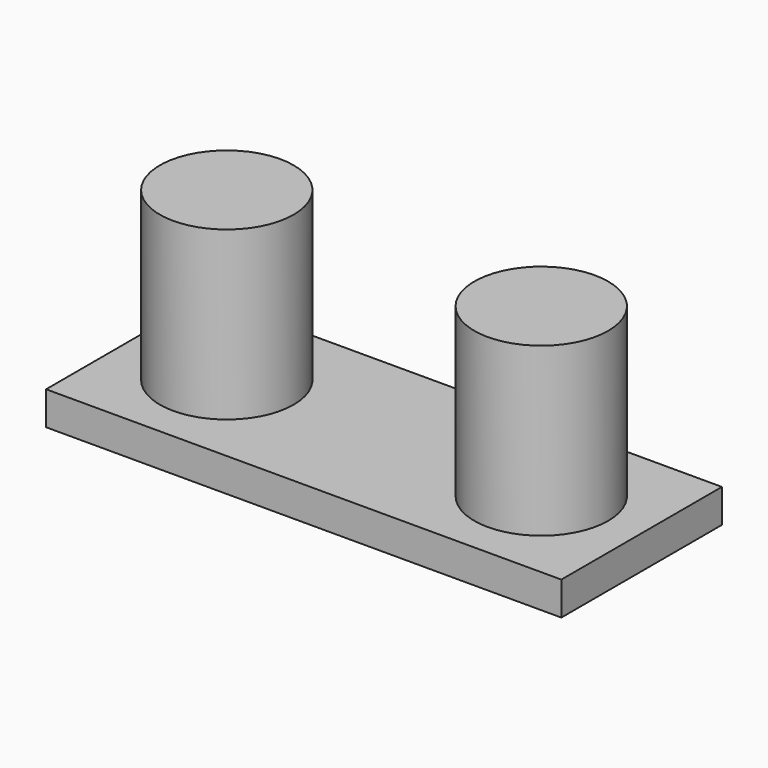
from build123d import *

# Parameters (mm, degrees)
F2_DEPTH = 5
F3_DEPTH = 30


with BuildPart() as f2:
    # F0 (on Top) → F2 (new body)
    with BuildSketch(Plane.XY):
        with BuildLine():
            ThreePointArc((-10, 0), (0, 10), (10, 0))
            Line((10, 0), (37, 0))
            ThreePointArc((37, 0), (47, 10), (57, 0))
            Line((57, 0), (62, 0))
            Line((62, 0), (62, 15))
            Line((62, 15), (-15, 15))
            Line((-15, 15), (-15, 0))
            Line((-15, 0), (-10, 0))
        make_face()
        with BuildLine():
            Line((37, 0), (10, 0))
            ThreePointArc((10, 0), (0, -10), (-10, 0))
            Line((-10, 0), (-15, 0))
            Line((-15, 0), (-15, -15))
            Line((-15, -15), (62, -15))
            Line((62, -15), (62, 0))
            Line((62, 0), (57, 0))
            ThreePointArc((57, 0), (47, -10), (37, 0))
        make_face()
    extrude(amount=F2_DEPTH)

    # F0 (on Top) → F3 (join)
    with BuildSketch(Plane.XY):
        with BuildLine():
            ThreePointArc((-10, 0), (0, -10), (10, 0))
            Line((10, 0), (0, 0))
            Line((0, 0), (-10, 0))
        make_face()
        with BuildLine():
            Line((0, 0), (10, 0))
            ThreePointArc((10, 0), (0, 10), (-10, 0))
            Line((-10, 0), (0, 0))
        make_face()
        with BuildLine():
            Line((47, 0), (37, 0))
            ThreePointArc((37, 0), (47, -10), (57, 0))
            Line((57, 0), (47, 0))
        make_face()
        with BuildLine():
            ThreePointArc((57, 0), (47, 10), (37, 0))
            Line((37, 0), (47, 0))
            Line((47, 0), (57, 0))
        make_face()
    extrude(amount=F3_DEPTH)


solid = f2.part
